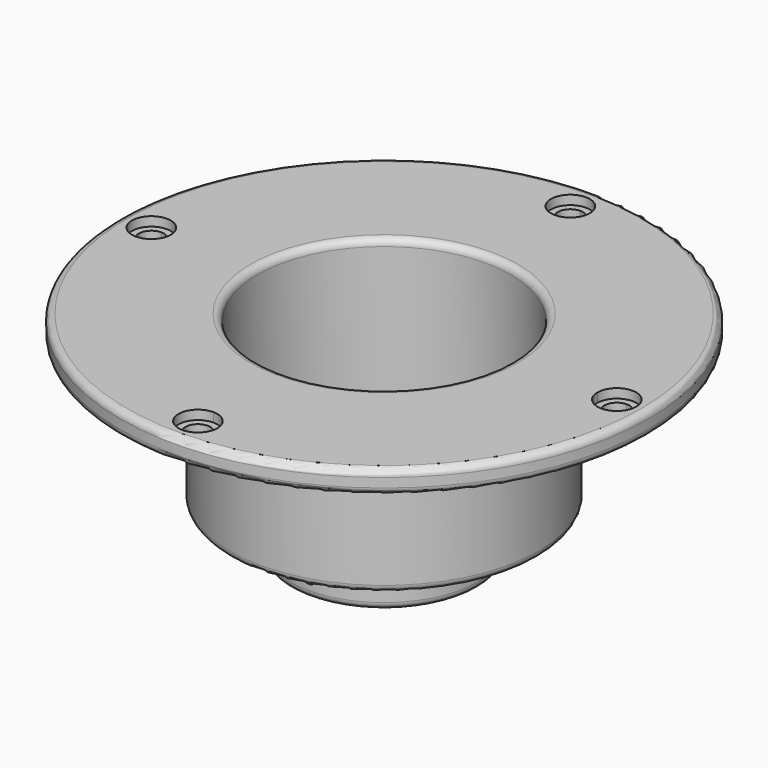
from build123d import *

# Parameters (mm, degrees)
F3_DEPTH = 25
F4_R     = 1.3538061079
F4_R_2   = 2.1038061079
F5_DEPTH = 1
F6_R     = 0.75
F7_R     = 0.9689306769
F8_DEPTH = 12.8081981093


with BuildPart() as f1:
    # F0 (on Front) → F1 (revolve)
    with BuildSketch(Plane.XZ):
        Polygon((7.75, 7.0265881751), (7.75, 0), (10.25, 0), (10.25, 5.0265881751), (16.75, 5.0265881751), (16.75, 20.5265881751), (28.65, 20.5265881751), (28.65, 23.0265881751), (13.75, 23.0265881751), (13.75, 7.0265881751), align=None)
    revolve(axis=Axis((0, 0, 10.9123289585), (0, 0, -1)))

    # F2 (on face) → F3 (cut)
    with BuildSketch(Plane.XY.offset(23.0265881751)):
        with BuildLine():
            ThreePointArc((1.3538061079, -25.2556488183), (1.3536845173, -25.2375048022), (1.3533197674, -25.2193640452))
            ThreePointArc((1.3533197674, -25.2193640452), (0, -25.2556488183), (-1.3533197674, -25.2193640452))
            ThreePointArc((-1.3533197674, -25.2193640452), (-0.9700292653, -26.2000185565), (-1.89e-08, -26.6094549262))
            ThreePointArc((-1.89e-08, -26.6094549262), (0.9572854726, -26.2129343043), (1.3538061079, -25.2556488183))
        make_face()
        with BuildLine():
            ThreePointArc((-1.3533197674, -25.2193640452), (0, -25.2556488183), (1.3533197674, -25.2193640452))
            ThreePointArc((1.3533197674, -25.2193640452), (0, -23.9018427105), (-1.3533197674, -25.2193640452))
        make_face()
        with BuildLine():
            ThreePointArc((25.2193640452, 1.3533197674), (25.2465759954, 0.6769030539), (25.2556488183, 0))
            ThreePointArc((25.2556488183, 0), (25.2465759954, -0.6769030539), (25.2193640452, -1.3533197674))
            ThreePointArc((25.2193640452, -1.3533197674), (26.2000185632, -0.9700292587), (26.6094549262, 0))
            ThreePointArc((26.6094549262, 0), (26.2000185632, 0.9700292587), (25.2193640452, 1.3533197674))
        make_face()
        with BuildLine():
            ThreePointArc((25.2193640452, -1.3533197674), (25.2465759954, -0.6769030539), (25.2556488183, 0))
            ThreePointArc((25.2556488183, 0), (25.2465759954, 0.6769030539), (25.2193640452, 1.3533197674))
            ThreePointArc((25.2193640452, 1.3533197674), (23.9018427105, 0), (25.2193640452, -1.3533197674))
        make_face()
        with BuildLine():
            ThreePointArc((-1.3533197674, 25.2193640452), (0, 25.2556488183), (1.3533197674, 25.2193640452))
            ThreePointArc((1.3533197674, 25.2193640452), (1.3536845173, 25.2375048022), (1.3538061079, 25.2556488183))
            ThreePointArc((1.3538061079, 25.2556488183), (0.9572854758, 26.2129343011), (-9.8e-09, 26.6094549262))
            ThreePointArc((-9.8e-09, 26.6094549262), (-0.9700292621, 26.2000185597), (-1.3533197674, 25.2193640452))
        make_face()
        with BuildLine():
            ThreePointArc((-1.3533197674, 25.2193640452), (0, 23.9018427105), (1.3533197674, 25.2193640452))
            ThreePointArc((1.3533197674, 25.2193640452), (0, 25.2556488183), (-1.3533197674, 25.2193640452))
        make_face()
        with BuildLine():
            ThreePointArc((-25.2193640452, -1.3533197674), (-25.2556488183, 0), (-25.2193640452, 1.3533197674))
            ThreePointArc((-25.2193640452, 1.3533197674), (-26.2000185693, 0.9700292527), (-26.6094549262, -1.7e-08))
            ThreePointArc((-26.6094549262, -1.7e-08), (-26.2000185572, -0.9700292646), (-25.2193640452, -1.3533197674))
        make_face()
        with BuildLine():
            ThreePointArc((-23.9018427105, 0), (-24.2856195597, 0.9443697449), (-25.2193640452, 1.3533197674))
            ThreePointArc((-25.2193640452, 1.3533197674), (-25.2556488183, 0), (-25.2193640452, -1.3533197674))
            ThreePointArc((-25.2193640452, -1.3533197674), (-24.2856195597, -0.9443697449), (-23.9018427105, 0))
        make_face()
    extrude(amount=-F3_DEPTH, mode=Mode.SUBTRACT)

    # F4 (on face) → F5 (cut)
    with BuildSketch(Plane.XY.offset(23.0265881751)):
        with BuildLine():
            ThreePointArc((2.1038061079, -25.2556488183), (1.4876155372, -23.7680332252), (-7.92e-08, -23.1518427105))
            ThreePointArc((-7.92e-08, -23.1518427105), (-1.4876155372, -26.7432644115), (2.1038061079, -25.2556488183))
        make_face()
        with Locations((0, -25.2556488183)):
            Circle(F4_R, mode=Mode.SUBTRACT)
        with Locations((-25.2556488183, 0)):
            Circle(F4_R_2)
        with Locations((-25.2556488183, 0)):
            Circle(F4_R, mode=Mode.SUBTRACT)
        with BuildLine():
            ThreePointArc((2.1038061079, 25.2556488183), (-1.4876155641, 26.7432643846), (-3e-09, 23.1518427105))
            ThreePointArc((-3e-09, 23.1518427105), (1.4876155641, 23.7680332521), (2.1038061079, 25.2556488183))
        make_face()
        with Locations((0, 25.2556488183)):
            Circle(F4_R, mode=Mode.SUBTRACT)
        with BuildLine():
            ThreePointArc((27.3594549262, 0), (25.2556488183, 2.1038061079), (23.1518427105, 0))
            ThreePointArc((23.1518427105, 0), (25.2556488183, -2.1038061079), (27.3594549262, 0))
        make_face()
        with Locations((25.2556488183, 0)):
            Circle(F4_R, mode=Mode.SUBTRACT)
    extrude(amount=-F5_DEPTH, mode=Mode.SUBTRACT)

    # F6
    f6_edges = [f1.edges().sort_by_distance(p)[0] for p in [
        (-13.75, 0, 23.026588),
        (-28.65, 0, 23.026588),
        (-28.65, 0, 20.526588),
        (-16.75, 0, 20.526588),
        (-16.75, 0, 5.026588),
        (-10.25, 0, 5.026588),
        (-10.25, 0, 0),
        (-7.75, 0, 0),
        (-7.75, 0, 7.026588),
        (-13.75, 0, 7.026588),
    ]]
    fillet(f6_edges, radius=F6_R)

    # F7 (on Front) → F8 (cut, symmetric)
    with BuildSketch(Plane.XZ):
        with Locations((0, 2.3445507977)):
            Circle(F7_R)
    extrude(amount=F8_DEPTH, both=True, mode=Mode.SUBTRACT)


solid = f1.part
